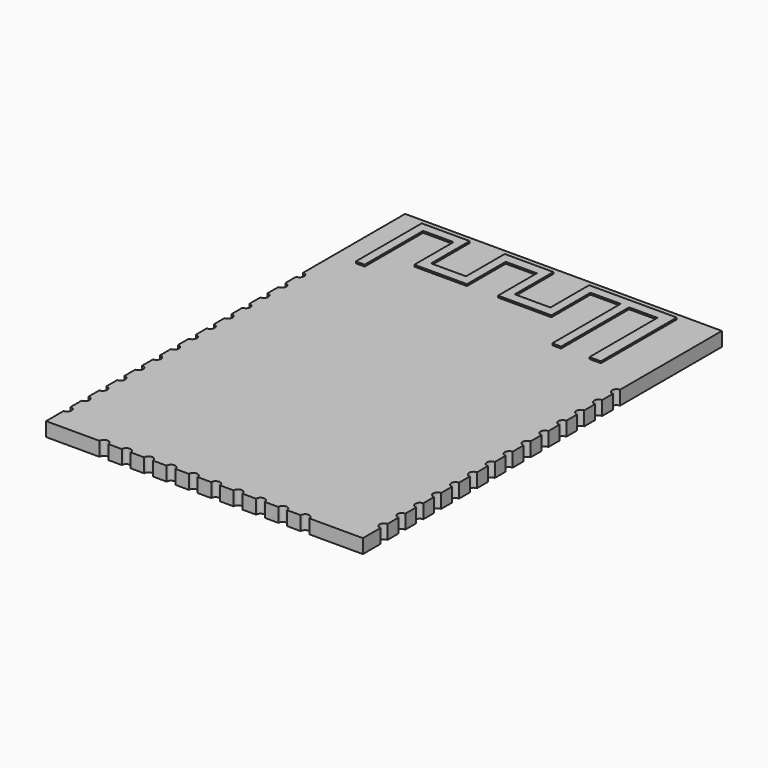
from build123d import *

# Parameters (mm, degrees)
SKETCH_W     = 18
SKETCH_H     = 25.5
PAD_DEPTH    = 0.8
SKETCH001_R  = 0.25
POCKET_DEPTH = 5
PAD001_DEPTH = 0.1


with BuildPart() as part:
    # Sketch → Pad (new body)
    with BuildSketch(Plane.XY):
        with Locations((0, 12.75)):
            Rectangle(SKETCH_W, SKETCH_H)
    extrude(amount=-PAD_DEPTH)

    # Sketch001 → Pocket (cut)
    with BuildSketch(Plane.XY):
        with Locations((-5.715, 0)):
            Circle(SKETCH001_R)
        with Locations((-4.445, 0)):
            Circle(SKETCH001_R)
        with Locations((-3.175, 0)):
            Circle(SKETCH001_R)
        with Locations((-1.905, 0)):
            Circle(SKETCH001_R)
        with Locations((-0.635, 0)):
            Circle(SKETCH001_R)
        with Locations((0.635, 0)):
            Circle(SKETCH001_R)
        with Locations((1.905, 0)):
            Circle(SKETCH001_R)
        with Locations((3.175, 0)):
            Circle(SKETCH001_R)
        with Locations((4.445, 0)):
            Circle(SKETCH001_R)
        with Locations((5.715, 0)):
            Circle(SKETCH001_R)
        with Locations((-9, 1.5)):
            Circle(SKETCH001_R)
        with Locations((-9, 2.77)):
            Circle(SKETCH001_R)
        with Locations((-9, 4.04)):
            Circle(SKETCH001_R)
        with Locations((-9, 5.31)):
            Circle(SKETCH001_R)
        with Locations((-9, 6.58)):
            Circle(SKETCH001_R)
        with Locations((-9, 7.85)):
            Circle(SKETCH001_R)
        with Locations((-9, 9.12)):
            Circle(SKETCH001_R)
        with Locations((-9, 10.39)):
            Circle(SKETCH001_R)
        with Locations((-9, 11.66)):
            Circle(SKETCH001_R)
        with Locations((-9, 12.93)):
            Circle(SKETCH001_R)
        with Locations((-9, 14.2)):
            Circle(SKETCH001_R)
        with Locations((-9, 15.47)):
            Circle(SKETCH001_R)
        with Locations((-9, 16.74)):
            Circle(SKETCH001_R)
        with Locations((-9, 18.01)):
            Circle(SKETCH001_R)
        with Locations((9, 1.5)):
            Circle(SKETCH001_R)
        with Locations((9, 2.77)):
            Circle(SKETCH001_R)
        with Locations((9, 4.04)):
            Circle(SKETCH001_R)
        with Locations((9, 5.31)):
            Circle(SKETCH001_R)
        with Locations((9, 6.58)):
            Circle(SKETCH001_R)
        with Locations((9, 7.85)):
            Circle(SKETCH001_R)
        with Locations((9, 9.12)):
            Circle(SKETCH001_R)
        with Locations((9, 10.39)):
            Circle(SKETCH001_R)
        with Locations((9, 11.66)):
            Circle(SKETCH001_R)
        with Locations((9, 12.93)):
            Circle(SKETCH001_R)
        with Locations((9, 14.2)):
            Circle(SKETCH001_R)
        with Locations((9, 15.47)):
            Circle(SKETCH001_R)
        with Locations((9, 16.74)):
            Circle(SKETCH001_R)
        with Locations((9, 18.01)):
            Circle(SKETCH001_R)
    extrude(amount=-POCKET_DEPTH, mode=Mode.SUBTRACT)

    # Sketch002 → Pad001 (join)
    with BuildSketch(Plane.XY):
        Polygon((6.750327, 19.716486), (6.750327, 25.1), (1.77515, 25.1), (1.77515, 22.352757), (-0.253976, 22.352757), (-0.253976, 25.1), (-3.021827, 25.1), (-3.021827, 22.352757), (-5.009602, 22.352757), (-5.009602, 25.1), (-7.736101, 25.1), (-7.736101, 20.419491), (-7.236101, 20.419491), (-7.236101, 24.575495), (-5.509602, 24.575495), (-5.509602, 21.794554), (-2.521827, 21.794554), (-2.521827, 24.544479), (-0.753976, 24.544479), (-0.753976, 21.794554), (2.27515, 21.794554), (2.27515, 24.575495), (3.98755, 24.575495), (3.98755, 19.716486), (4.48755, 19.716486), (4.48755, 24.544479), (6.100327, 24.544479), (6.100327, 19.716486), align=None)
    extrude(amount=PAD001_DEPTH)


solid = part.part
